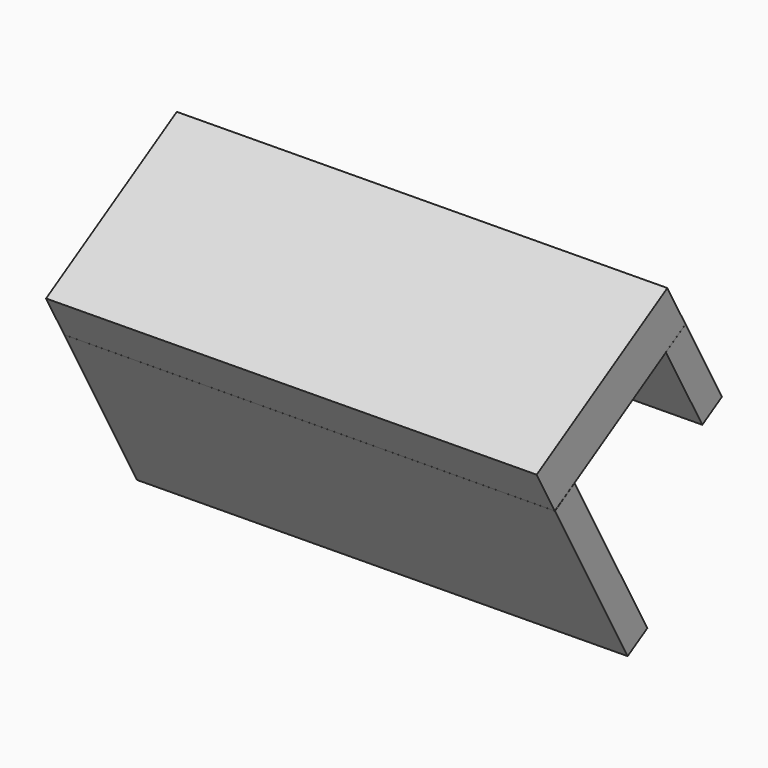
from build123d import *

# Parameters (mm, degrees)
SKETCH054_W             = 50
SKETCH054_H             = 20
PAD053_DEPTH            = 5
SKETCH055_W             = 50
SKETCH055_H             = 3
PAD054_DEPTH            = 20
SKETCH056_W             = 50
SKETCH056_H             = 10
PAD055_DEPTH            = 3
BODY042_ROLL_ANGLE      = 150.405023
BODY042_PITCH_ANGLE     = -0.370429
BODY042_PLACEMENT_ANGLE = -178.656588


with BuildPart() as part:
    # Sketch054 → Pad053 (new body)
    with BuildSketch(Plane.XY):
        with Locations((184.845276, -123.914059)):
            Rectangle(SKETCH054_W, SKETCH054_H)
    extrude(amount=PAD053_DEPTH)

    # Sketch055 (on Face6 of Pad053) → Pad054 (join)
    with BuildSketch(Plane.XY.offset(5)):
        with Locations((184.83606, -132.417099)):
            Rectangle(SKETCH055_W, SKETCH055_H)
    extrude(amount=PAD054_DEPTH)

    # Sketch056 (on Face7 of Pad054) → Pad055 (join)
    with BuildSketch(Plane(origin=(0, -113.914059, 0), x_dir=(-1, 0, 0), z_dir=(0, 1, 0))):
        with Locations((-184.841869, 9.989668)):
            Rectangle(SKETCH056_W, SKETCH056_H)
    extrude(amount=-PAD055_DEPTH)


with BuildPart() as part_1:
    # Body042 roll: moved
    add(part.part.rotate(Axis((0, 0, 0), (1, 0, 0)), BODY042_ROLL_ANGLE))


with BuildPart() as part_2:
    # Body042 pitch: moved
    add(part_1.part.rotate(Axis((0, 0, 0), (0, 1, 0)), BODY042_PITCH_ANGLE))


with BuildPart() as part_3:
    # Body042 placement: moved
    add(part_2.part.moved(Location((285.028603, 95.891543, 263.575076))).rotate(Axis((285.028603, 95.891543, 263.575076), (0, 0, 1)), BODY042_PLACEMENT_ANGLE))


solid = part_3.part
